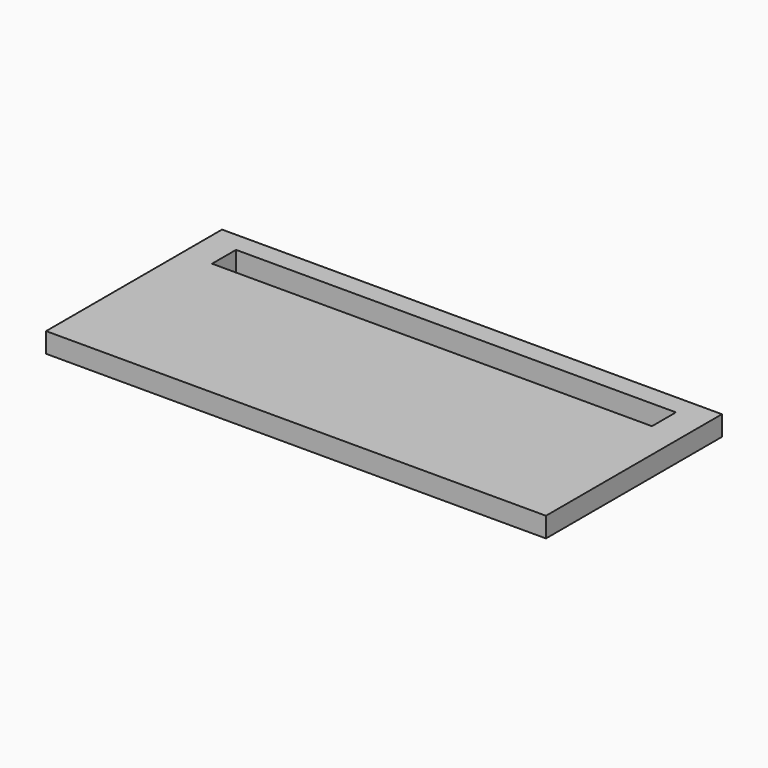
from build123d import *

# Parameters (mm, degrees)
BOX154_W     = 22
BOX154_H     = 1.5
BOX154_DEPTH = 2
BOX152_W     = 25
BOX152_H     = 11
BOX152_DEPTH = 1


with BuildPart() as longledhole012:
    # Box154 → Box154 (new body)
    with BuildSketch(Plane(origin=(1.5, 8.5, 0), x_dir=(1, 0, 0), z_dir=(0, 0, 1))):
        with Locations((11, 0.75)):
            Rectangle(BOX154_W, BOX154_H)
    extrude(amount=BOX154_DEPTH)


with BuildPart() as cut029:
    # Box152 → Box152 (new body)
    with BuildSketch(Plane.XY):
        with Locations((12.5, 5.5)):
            Rectangle(BOX152_W, BOX152_H)
    extrude(amount=BOX152_DEPTH)

    # Cut029: cut LongLedHole012
    add(longledhole012.part, mode=Mode.SUBTRACT)


solid = cut029.part
